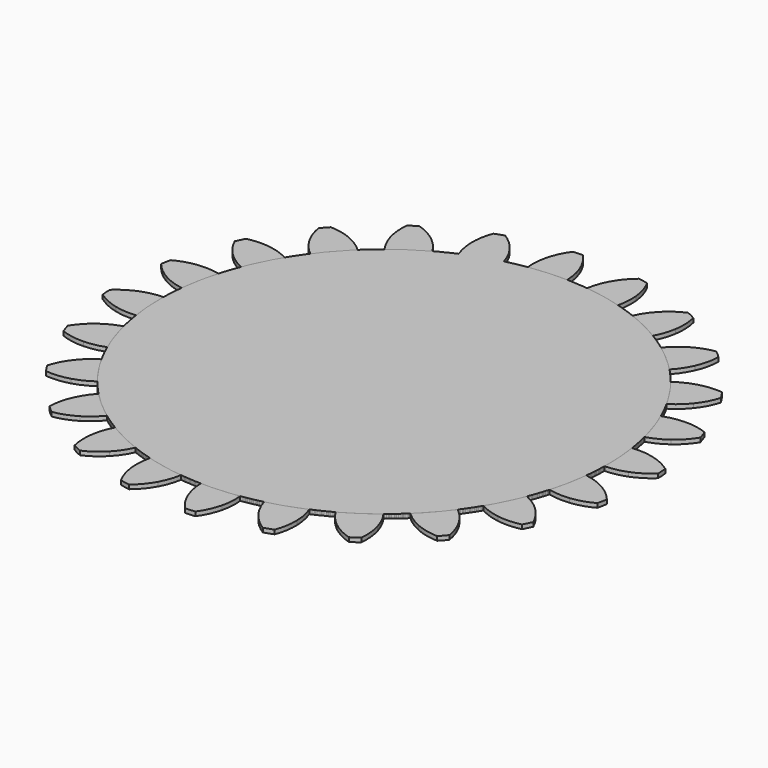
from build123d import *

# Parameters (mm, degrees)
F1_DEPTH = 1
F2_COUNT = 24
F2_ANGLE = 345


with BuildPart() as f1:
    # F0 (on Top) → F1 (new body)
    with BuildSketch(Plane.XY):
        with BuildLine():
            ThreePointArc((-7.997703, 53.122336), (-35.04498, -40.716031), (53.721, 0))
            ThreePointArc((53.721, 0), (38.336804, 37.632902), (0.995425, 53.711777))
            ThreePointArc((0.995425, 53.711777), (-3.513522, 53.605979), (-7.997703, 53.122336))
        make_face()
        with BuildLine():
            ThreePointArc((-7.997703, 53.122336), (-3.513522, 53.605979), (0.995425, 53.711777))
            ThreePointArc((0.995425, 53.711777), (0.714797, 56.236436), (0, 58.674))
            ThreePointArc((0, 58.674), (-1.260419, 61.18106), (-2.978461, 63.399694))
            ThreePointArc((-2.978461, 63.399694), (-4.152775, 63.35911), (-5.322341, 63.246068))
            ThreePointArc((-5.322341, 63.246068), (-6.736095, 60.822165), (-7.658494, 58.172036))
            ThreePointArc((-7.658494, 58.172036), (-8.049009, 55.662025), (-7.997703, 53.122336))
        make_face()
    extrude(amount=F1_DEPTH)


with BuildPart() as f2_1:
    # F2: instance of F1
    add(f1.part.rotate(Axis((0, 0, 0), (0, 0, -1)), 1 * F2_ANGLE / (F2_COUNT - 1)))


with BuildPart() as f2_2:
    # F2: instance of F1
    add(f1.part.rotate(Axis((0, 0, 0), (0, 0, -1)), 2 * F2_ANGLE / (F2_COUNT - 1)))


with BuildPart() as f2_3:
    # F2: instance of F1
    add(f1.part.rotate(Axis((0, 0, 0), (0, 0, -1)), 3 * F2_ANGLE / (F2_COUNT - 1)))


with BuildPart() as f2_4:
    # F2: instance of F1
    add(f1.part.rotate(Axis((0, 0, 0), (0, 0, -1)), 4 * F2_ANGLE / (F2_COUNT - 1)))


with BuildPart() as f2_5:
    # F2: instance of F1
    add(f1.part.rotate(Axis((0, 0, 0), (0, 0, -1)), 5 * F2_ANGLE / (F2_COUNT - 1)))


with BuildPart() as f2_6:
    # F2: instance of F1
    add(f1.part.rotate(Axis((0, 0, 0), (0, 0, -1)), 6 * F2_ANGLE / (F2_COUNT - 1)))


with BuildPart() as f2_7:
    # F2: instance of F1
    add(f1.part.rotate(Axis((0, 0, 0), (0, 0, -1)), 7 * F2_ANGLE / (F2_COUNT - 1)))


with BuildPart() as f2_8:
    # F2: instance of F1
    add(f1.part.rotate(Axis((0, 0, 0), (0, 0, -1)), 8 * F2_ANGLE / (F2_COUNT - 1)))


with BuildPart() as f2_9:
    # F2: instance of F1
    add(f1.part.rotate(Axis((0, 0, 0), (0, 0, -1)), 9 * F2_ANGLE / (F2_COUNT - 1)))


with BuildPart() as f2_10:
    # F2: instance of F1
    add(f1.part.rotate(Axis((0, 0, 0), (0, 0, -1)), 10 * F2_ANGLE / (F2_COUNT - 1)))


with BuildPart() as f2_11:
    # F2: instance of F1
    add(f1.part.rotate(Axis((0, 0, 0), (0, 0, -1)), 11 * F2_ANGLE / (F2_COUNT - 1)))


with BuildPart() as f2_12:
    # F2: instance of F1
    add(f1.part.rotate(Axis((0, 0, 0), (0, 0, -1)), 12 * F2_ANGLE / (F2_COUNT - 1)))


with BuildPart() as f2_13:
    # F2: instance of F1
    add(f1.part.rotate(Axis((0, 0, 0), (0, 0, -1)), 13 * F2_ANGLE / (F2_COUNT - 1)))


with BuildPart() as f2_14:
    # F2: instance of F1
    add(f1.part.rotate(Axis((0, 0, 0), (0, 0, -1)), 14 * F2_ANGLE / (F2_COUNT - 1)))


with BuildPart() as f2_15:
    # F2: instance of F1
    add(f1.part.rotate(Axis((0, 0, 0), (0, 0, -1)), 15 * F2_ANGLE / (F2_COUNT - 1)))


with BuildPart() as f2_16:
    # F2: instance of F1
    add(f1.part.rotate(Axis((0, 0, 0), (0, 0, -1)), 16 * F2_ANGLE / (F2_COUNT - 1)))


with BuildPart() as f2_17:
    # F2: instance of F1
    add(f1.part.rotate(Axis((0, 0, 0), (0, 0, -1)), 17 * F2_ANGLE / (F2_COUNT - 1)))


with BuildPart() as f2_18:
    # F2: instance of F1
    add(f1.part.rotate(Axis((0, 0, 0), (0, 0, -1)), 18 * F2_ANGLE / (F2_COUNT - 1)))


with BuildPart() as f2_19:
    # F2: instance of F1
    add(f1.part.rotate(Axis((0, 0, 0), (0, 0, -1)), 19 * F2_ANGLE / (F2_COUNT - 1)))


with BuildPart() as f2_20:
    # F2: instance of F1
    add(f1.part.rotate(Axis((0, 0, 0), (0, 0, -1)), 20 * F2_ANGLE / (F2_COUNT - 1)))


with BuildPart() as f2_21:
    # F2: instance of F1
    add(f1.part.rotate(Axis((0, 0, 0), (0, 0, -1)), 21 * F2_ANGLE / (F2_COUNT - 1)))


with BuildPart() as f2_22:
    # F2: instance of F1
    add(f1.part.rotate(Axis((0, 0, 0), (0, 0, -1)), 22 * F2_ANGLE / (F2_COUNT - 1)))


with BuildPart() as f2_23:
    # F2: instance of F1
    add(f1.part.rotate(Axis((0, 0, 0), (0, 0, -1)), 23 * F2_ANGLE / (F2_COUNT - 1)))


solid = Compound([f1.part, f2_1.part, f2_2.part, f2_3.part, f2_4.part, f2_5.part, f2_6.part, f2_7.part, f2_8.part, f2_9.part, f2_10.part, f2_11.part, f2_12.part, f2_13.part, f2_14.part, f2_15.part, f2_16.part, f2_17.part, f2_18.part, f2_19.part, f2_20.part, f2_21.part, f2_22.part, f2_23.part])
